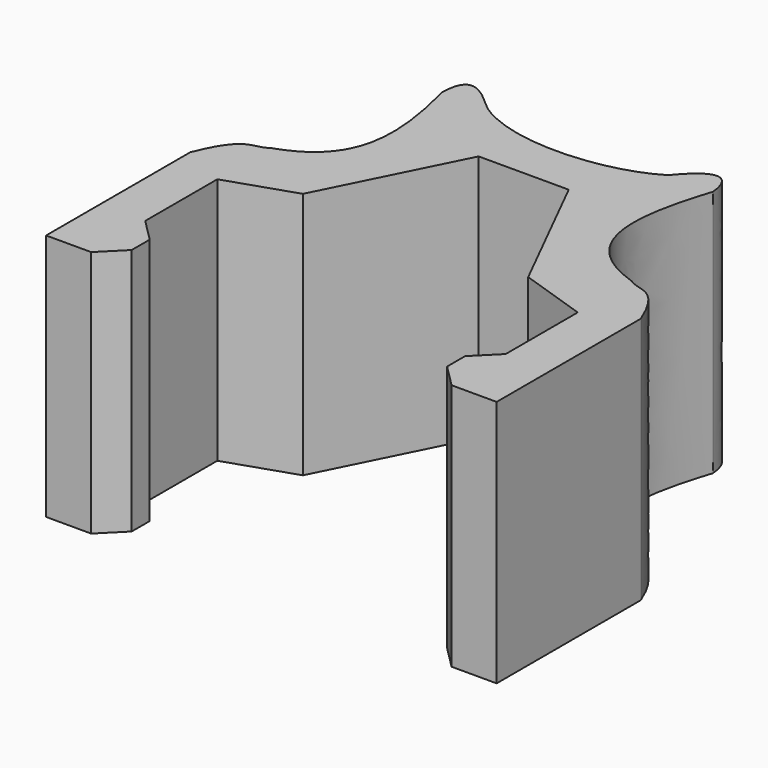
from build123d import *

# Parameters (mm, degrees)
EXTRUDE_DEPTH = 11


with BuildPart() as part:
    # path2076 → Extrude (new body)
    with BuildSketch(Plane(origin=(48, -101.847886, 0), x_dir=(0, 1, 0), z_dir=(0, 0, 1))):
        with BuildLine():
            add(Edge.make_bspline(
                [(-6.152114, 8.000001), (-2.152114, 8)],
                knots=[0, 0, 4, 4], degree=1))
            add(Edge.make_bspline(
                [(-2.152114, 8), (-1.152114, 5)],
                knots=[0, 0, 3.162278, 3.162278], degree=1))
            add(Edge.make_bspline(
                [(-1.152114, 5), (4.847886, 2)],
                knots=[0, 0, 6.708204, 6.708204], degree=1))
            add(Edge.make_bspline(
                [(4.847886, 2), (4.847886, -2)],
                knots=[0, 0, 4, 4], degree=1))
            add(Edge.make_bspline(
                [(4.847886, -2), (-1.152114, -5)],
                knots=[0, 0, 6.708204, 6.708204], degree=1))
            add(Edge.make_bspline(
                [(-1.152114, -5), (-2.152114, -8)],
                knots=[0, 0, 3.162278, 3.162278], degree=1))
            add(Edge.make_bspline(
                [(-2.152114, -8), (-6.152114, -7.999998)],
                knots=[0, 0, 4, 4], degree=1))
            add(Edge.make_bspline(
                [(-6.152114, -7.999998), (-7.152114, -7)],
                knots=[0, 0, 1.414212, 1.414212], degree=1))
            add(Edge.make_bspline(
                [(-7.152114, -7), (-8.152114, -7)],
                knots=[0, 0, 1, 1], degree=1))
            add(Edge.make_bspline(
                [(-8.152114, -7), (-9.152114, -8)],
                knots=[0, 0, 1.414214, 1.414214], degree=1))
            add(Edge.make_bspline(
                [(-9.152114, -8), (-9.152114, -8.999999)],
                knots=[0, 0, 0.999999, 0.999999], degree=1))
            add(Edge.make_bspline(
                [(-9.152114, -8.999999), (-9.152114, -10)],
                knots=[0, 0, 1.000001, 1.000001], degree=1))
            add(Edge.make_bspline(
                [(-9.152114, -10), (-3.152114, -10)],
                knots=[0, 0, 6, 6], degree=1))
            add(Edge.make_bspline(
                [(-3.152114, -10), (-1.152114, -10)],
                knots=[0, 0, 2, 2], degree=1))
            add(Edge.make_bspline(
                [(-1.152114, -10), (0.946616, -9.165553), (0.446196, -8.575302), (0.847886, -8)],
                knots=[0, 0, 0, 0, 1, 1, 1, 1], degree=3))
            add(Edge.make_bspline(
                [(0.847886, -8), (1.847886, -5), (4.067289, -4.7497), (7.847886, -6)],
                knots=[0, 0, 0, 0, 1, 1, 1, 1], degree=3))
            add(Edge.make_bspline(
                [(7.847886, -6), (8.658754, -5.92727), (9.669901, -5.497988), (7.847886, -4)],
                knots=[0, 0, 0, 0, 1, 1, 1, 1], degree=3))
            add(Edge.make_bspline(
                [(7.847886, -4), (6.679718, -2.129684), (6.357649, 1.834561), (7.847886, 4)],
                knots=[0, 0, 0, 0, 1, 1, 1, 1], degree=3))
            add(Edge.make_bspline(
                [(7.847886, 4), (8.561538, 4.812056), (9.686967, 5.928072), (7.847886, 6)],
                knots=[0, 0, 0, 0, 1, 1, 1, 1], degree=3))
            add(Edge.make_bspline(
                [(7.847886, 6), (4.380341, 5.134889), (1.847886, 5), (0.847886, 8)],
                knots=[0, 0, 0, 0, 1, 1, 1, 1], degree=3))
            add(Edge.make_bspline(
                [(0.847886, 8), (0.424126, 8.564899), (1.038266, 9.123105), (-1.152114, 10)],
                knots=[0, 0, 0, 0, 1, 1, 1, 1], degree=3))
            add(Edge.make_bspline(
                [(-1.152114, 10), (-9.152114, 10)],
                knots=[0, 0, 8, 8], degree=1))
            add(Edge.make_bspline(
                [(-9.152114, 10), (-9.152114, 9.000002)],
                knots=[0, 0, 0.999998, 0.999998], degree=1))
            add(Edge.make_bspline(
                [(-9.152114, 9.000002), (-9.152114, 8)],
                knots=[0, 0, 1.000002, 1.000002], degree=1))
            add(Edge.make_bspline(
                [(-9.152114, 8), (-8.152114, 7)],
                knots=[0, 0, 1.414214, 1.414214], degree=1))
            add(Edge.make_bspline(
                [(-8.152114, 7), (-7.152114, 7)],
                knots=[0, 0, 1, 1], degree=1))
            add(Edge.make_bspline(
                [(-7.152114, 7), (-6.152114, 8.000001)],
                knots=[0, 0, 1.414214, 1.414214], degree=1))
        make_face()
    extrude(amount=EXTRUDE_DEPTH)


solid = part.part
